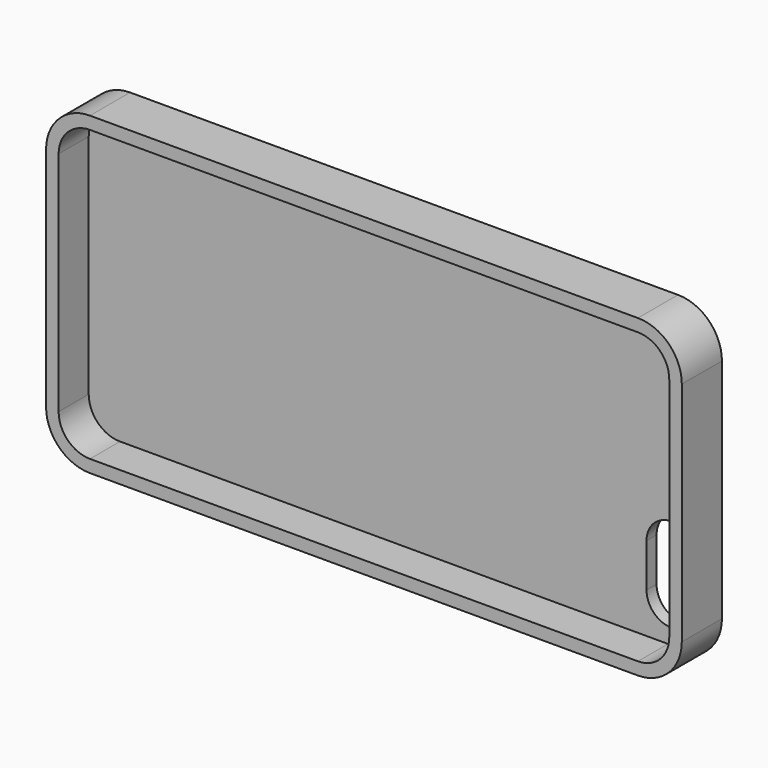
from build123d import *

# Parameters (mm, degrees)
F1_DEPTH = 10.16
F3_DEPTH = 7.62
F5_DEPTH = 25.4


with BuildPart() as f1:
    # F0 (on Front) → F1 (new body)
    with BuildSketch(Plane.XZ):
        with BuildLine():
            Line((55.499, 31.877), (-55.499, 31.877))
            ThreePointArc((-55.499, 31.877), (-61.785179, 29.273179), (-64.389, 22.987))
            Line((-64.389, 22.987), (-64.389, -22.987))
            ThreePointArc((-64.389, -22.987), (-61.785179, -29.273179), (-55.499, -31.877))
            Line((-55.499, -31.877), (55.499, -31.877))
            ThreePointArc((55.499, -31.877), (61.785179, -29.273179), (64.389, -22.987))
            Line((64.389, -22.987), (64.389, 22.987))
            ThreePointArc((64.389, 22.987), (61.785179, 29.273179), (55.499, 31.877))
        make_face()
    extrude(amount=F1_DEPTH)

    # F2 (on face) → F3 (cut)
    with BuildSketch(Plane.XZ.offset(10.16)):
        with BuildLine():
            Line((55.499, 29.337), (-55.499, 29.337))
            ThreePointArc((-55.499, 29.337), (-59.989128, 27.477128), (-61.849, 22.987))
            Line((-61.849, 22.987), (-61.849, -22.987))
            ThreePointArc((-61.849, -22.987), (-59.989128, -27.477128), (-55.499, -29.337))
            Line((-55.499, -29.337), (55.499, -29.337))
            ThreePointArc((55.499, -29.337), (59.989128, -27.477128), (61.849, -22.987))
            Line((61.849, -22.987), (61.849, 22.987))
            ThreePointArc((61.849, 22.987), (59.989128, 27.477128), (55.499, 29.337))
        make_face()
    extrude(amount=-F3_DEPTH, mode=Mode.SUBTRACT)

    # F4 (on face) → F5 (cut)
    with BuildSketch(Plane(origin=(0, 0, 0), x_dir=(-1, 0, 0), z_dir=(0, 1, 0))):
        with BuildLine():
            ThreePointArc((-61.394893, -21.146874), (-59.906995, -24.738976), (-56.314893, -26.226874))
            Line((-56.314893, -26.226874), (-56.235034, -26.226874))
            ThreePointArc((-56.235034, -26.226874), (-52.642932, -24.738976), (-51.155034, -21.146874))
            Line((-51.155034, -21.146874), (-51.155034, -12.330383))
            ThreePointArc((-51.155034, -12.330383), (-52.642932, -8.738281), (-56.235034, -7.250383))
            Line((-56.235034, -7.250383), (-56.314893, -7.250383))
            ThreePointArc((-56.314893, -7.250383), (-59.906995, -8.738281), (-61.394893, -12.330383))
            Line((-61.394893, -12.330383), (-61.394893, -21.146874))
        make_face()
    extrude(amount=-F5_DEPTH, mode=Mode.SUBTRACT)


solid = f1.part
